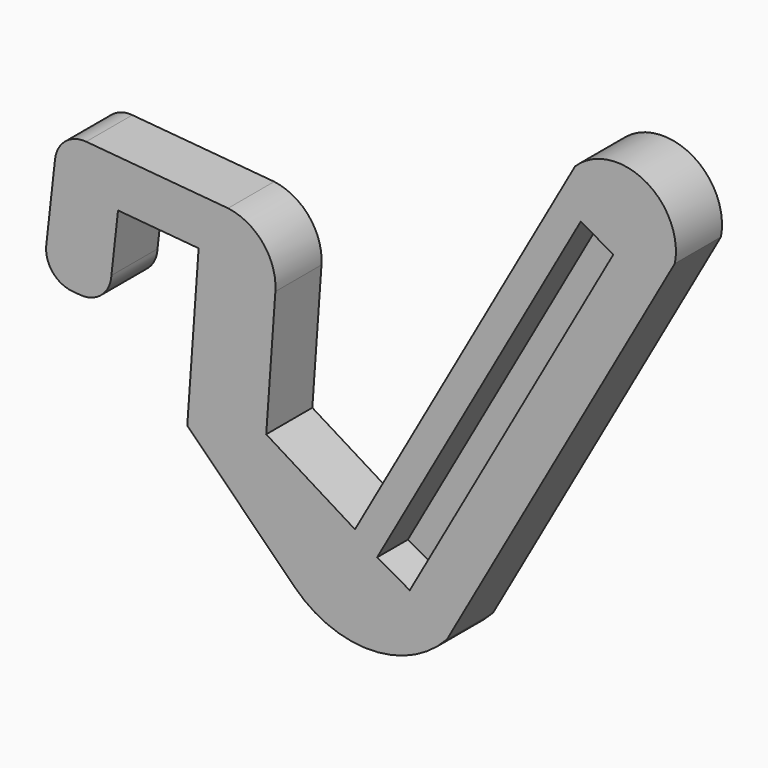
from build123d import *

# Parameters (mm, degrees)
F1_DEPTH = 4
F2_DEPTH = 2


with BuildPart() as f1:
    # F0 (on Front) → F1 (new body)
    with BuildSketch(Plane.XZ):
        with BuildLine():
            ThreePointArc((-36.017278, 29.398246), (-35.326827, 27.208416), (-33.290161, 26.148194))
            Line((-33.290161, 26.148194), (-32.484752, 26.07773))
            ThreePointArc((-32.484752, 26.07773), (-30.253575, 26.803519), (-29.227186, 28.913363))
            Line((-29.227186, 28.913363), (-28.537242, 35.103315))
            Line((-28.537242, 35.103315), (-20.148152, 34.356556))
            Line((-20.148152, 34.356556), (-21.33208, 17.72593))
            Line((-21.33208, 17.72593), (-10.161562, 6.577645))
            ThreePointArc((-10.161562, 6.577645), (-2.155933, 3.368806), (5.701012, 6.926216))
            Line((5.701012, 6.926216), (29.425626, 49.089231))
            ThreePointArc((29.425626, 49.089231), (26.2619, 55.67029), (19.036789, 54.613281))
            Line((19.036789, 54.613281), (-3.875086, 13.894653))
            Line((-3.875086, 13.894653), (-13.112814, 19.599447))
            Line((-13.112814, 19.599447), (-12.160234, 32.994758))
            ThreePointArc((-12.160234, 32.994758), (-13.425174, 36.986259), (-17.083313, 39.023455))
            Line((-17.083313, 39.023455), (-31.851361, 40.322261))
            ThreePointArc((-31.851361, 40.322261), (-34.014612, 39.655086), (-35.095724, 37.666124))
            Line((-35.095724, 37.666124), (-36.017278, 29.398246))
        make_face()
        Polygon((23.022137, 47.828823), (1.829196, 10.165058), (-1.569676, 12.077562), (19.623265, 49.741327), align=None, mode=Mode.SUBTRACT)
    extrude(amount=F1_DEPTH)

    # F0 (on Front) → F2 (join)
    with BuildSketch(Plane.XZ):
        with BuildLine():
            ThreePointArc((-36.017278, 29.398246), (-35.326827, 27.208416), (-33.290161, 26.148194))
            Line((-33.290161, 26.148194), (-32.484752, 26.07773))
            ThreePointArc((-32.484752, 26.07773), (-30.253575, 26.803519), (-29.227186, 28.913363))
            Line((-29.227186, 28.913363), (-28.537242, 35.103315))
            Line((-28.537242, 35.103315), (-20.148152, 34.356556))
            Line((-20.148152, 34.356556), (-21.33208, 17.72593))
            Line((-21.33208, 17.72593), (-10.161562, 6.577645))
            ThreePointArc((-10.161562, 6.577645), (-2.155933, 3.368806), (5.701012, 6.926216))
            Line((5.701012, 6.926216), (29.425626, 49.089231))
            ThreePointArc((29.425626, 49.089231), (26.2619, 55.67029), (19.036789, 54.613281))
            Line((19.036789, 54.613281), (-3.875086, 13.894653))
            Line((-3.875086, 13.894653), (-13.112814, 19.599447))
            Line((-13.112814, 19.599447), (-12.160234, 32.994758))
            ThreePointArc((-12.160234, 32.994758), (-13.425174, 36.986259), (-17.083313, 39.023455))
            Line((-17.083313, 39.023455), (-31.851361, 40.322261))
            ThreePointArc((-31.851361, 40.322261), (-34.014612, 39.655086), (-35.095724, 37.666124))
            Line((-35.095724, 37.666124), (-36.017278, 29.398246))
        make_face()
        Polygon((23.022137, 47.828823), (1.829196, 10.165058), (-1.569676, 12.077562), (19.623265, 49.741327), align=None, mode=Mode.SUBTRACT)
        Polygon((-1.569676, 12.077562), (1.829196, 10.165058), (23.022137, 47.828823), (19.623265, 49.741327), align=None)
    extrude(amount=-F2_DEPTH)


solid = f1.part
